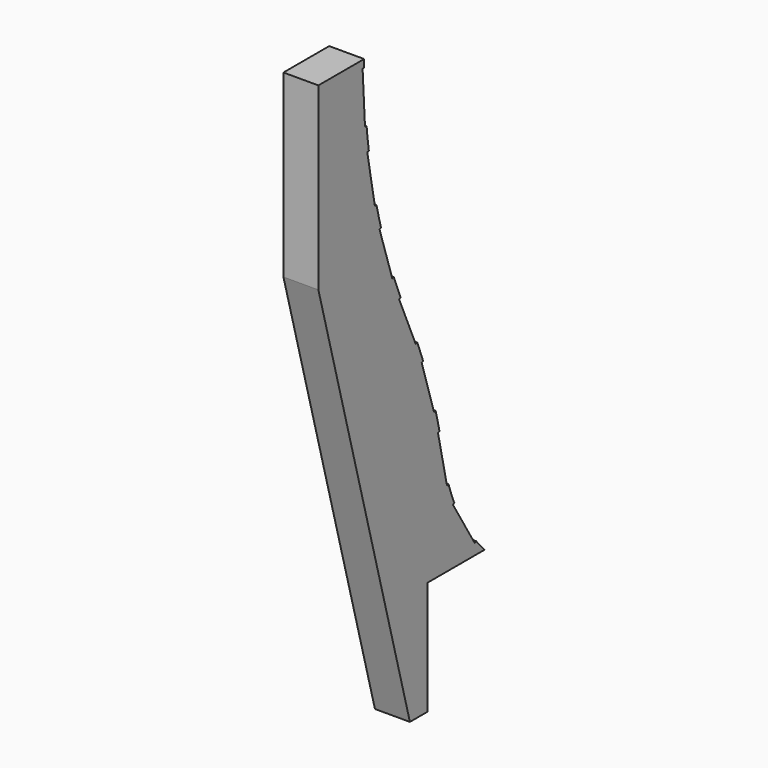
from build123d import *

# Parameters (mm, degrees)
F1_DEPTH = 44
F3_DEPTH = 44.001


with BuildPart() as f1:
    # F0 (on Right) → F1 (new body)
    with BuildSketch(Plane.YZ):
        with BuildLine():
            Line((0, -143), (0, 0))
            Line((0, 0), (89.5, 0))
            Line((89.5, 0), (89.5, 0.135534))
            ThreePointArc((89.5, 0.135534), (48.246456, 57.869699), (25.678122, 125.143461))
            ThreePointArc((25.678122, 125.143461), (2.97396, 218.234418), (-31.413874, 307.670888))
            ThreePointArc((-31.413874, 307.670888), (-82.652853, 460.62607), (-100, 621))
            Line((-100, 621), (-172, 621))
            Line((-172, 621), (-172, 394.415316))
            Line((-172, 394.415316), (-28, -143))
            Line((-28, -143), (0, -143))
        make_face()
    extrude(amount=-F1_DEPTH)

    # F2 (on face) → F3 (cut, through all)
    with BuildSketch(Plane.YZ):
        Polygon((74.071089, 13.776057), (76.205662, 15.077441), (41.849131, 71.430158), (39.714558, 70.128774), align=None)
        Polygon((30.361442, 95.267272), (32.802788, 95.805631), (19.715373, 160.494236), (18.590111, 160.257162), (16.148766, 159.718803), align=None)
        Polygon((10.012695, 184.7665), (12.399741, 185.509475), (-3.192727, 249.82656), (-7.214805, 248.527485), (-9.601851, 247.78451), align=None)
        Polygon((-18.74354, 271.839235), (-16.449247, 272.832322), (-40.185015, 334.475862), (-42.666724, 333.401653), (-44.961017, 332.408567), align=None)
        Polygon((-55.647484, 359.630059), (-53.267308, 360.394756), (-73.455309, 423.231407), (-75.835485, 422.46671), align=None)
        Polygon((-92.64633, 516.231548), (-95.104054, 515.773736), (-83.017833, 450.889815), (-80.560108, 451.347626), align=None)
        Polygon((-98.662946, 545.231548), (-96.162946, 545.231548), (-99.936382, 611.231548), (-102.436382, 611.231548), align=None)
    extrude(amount=-F3_DEPTH, mode=Mode.SUBTRACT)


solid = f1.part
